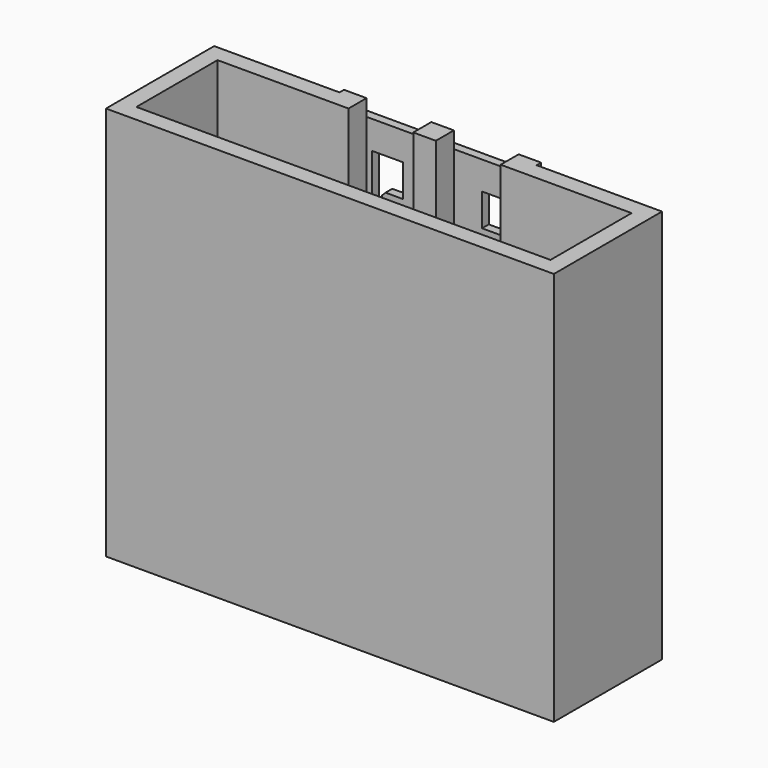
from build123d import *

# Parameters (mm, degrees)
F0_W          = 35
F0_H          = 44.15
F1_DEPTH      = 1.5
F3_DEPTH      = 45
F3_DEPTH_BACK = 25


with BuildPart() as f1:
    # F0 (on Front) → F1 (new body)
    with BuildSketch(Plane.XZ):
        Rectangle(F0_W, F0_H)
        with BuildLine():
            Line((-10.75, -10.075), (-10.75, -10.7))
            Line((-10.75, -10.7), (-10.125, -11.325))
            Line((-10.125, -11.325), (-7, -11.325))
            Line((-7, -11.325), (-7, -17.075))
            Line((-7, -17.075), (-12.5, -17.075))
            Line((-12.5, -17.075), (-12.5, -11.325))
            Line((-12.5, -11.325), (-12.5, -7.025))
            Line((-12.5, -7.025), (-10.75, -7.025))
            Line((-10.75, -7.025), (-10.75, -8.275))
            ThreePointArc((-10.75, -8.275), (-9.85, -9.175), (-10.75, -10.075))
        make_face(mode=Mode.SUBTRACT)
        with BuildLine():
            Line((10.125, -11.325), (10.75, -10.7))
            Line((10.75, -10.7), (10.75, -10.075))
            ThreePointArc((10.75, -10.075), (9.85, -9.175), (10.75, -8.275))
            Line((10.75, -8.275), (10.75, -7.025))
            Line((10.75, -7.025), (12.5, -7.025))
            Line((12.5, -7.025), (12.5, -11.325))
            Line((12.5, -11.325), (12.5, -17.075))
            Line((12.5, -17.075), (7, -17.075))
            Line((7, -17.075), (7, -11.325))
            Line((7, -11.325), (10.125, -11.325))
        make_face(mode=Mode.SUBTRACT)
        with BuildLine():
            Line((-12.5, 17.075), (-7, 17.075))
            Line((-7, 17.075), (-7, 11.325))
            Line((-7, 11.325), (-10.125, 11.325))
            Line((-10.125, 11.325), (-10.75, 10.7))
            Line((-10.75, 10.7), (-10.75, 10.075))
            ThreePointArc((-10.75, 10.075), (-9.85, 9.175), (-10.75, 8.275))
            Line((-10.75, 8.275), (-10.75, 7.025))
            Line((-10.75, 7.025), (-12.5, 7.025))
            Line((-12.5, 7.025), (-12.5, 11.325))
            Line((-12.5, 11.325), (-12.5, 17.075))
        make_face(mode=Mode.SUBTRACT)
        with BuildLine():
            Line((7, 17.075), (12.5, 17.075))
            Line((12.5, 17.075), (12.5, 11.325))
            Line((12.5, 11.325), (12.5, 7.025))
            Line((12.5, 7.025), (10.75, 7.025))
            Line((10.75, 7.025), (10.75, 8.275))
            ThreePointArc((10.75, 8.275), (9.85, 9.175), (10.75, 10.075))
            Line((10.75, 10.075), (10.75, 10.7))
            Line((10.75, 10.7), (10.125, 11.325))
            Line((10.125, 11.325), (7, 11.325))
            Line((7, 11.325), (7, 17.075))
        make_face(mode=Mode.SUBTRACT)
    extrude(amount=F1_DEPTH)

    # F2 (on Top) → F3 (join, two sides)
    with BuildSketch(Plane.XY) as f3_sk:
        Polygon((-13.5, -1.5), (-17.5, -1.5), (-17.5, -2.5), (-17.5, -5.5), (-13.5, -5.5), align=None)
        Polygon((-17.5, -5.5), (-17.5, -2.5), (-39.75, -2.5), (-39.75, -26.5), (39.75, -26.5), (39.75, -2.5), (17.5, -2.5), (17.5, -5.5), (36.75, -5.5), (36.75, -23.5), (-36.75, -23.5), (-36.75, -5.5), align=None)
        Polygon((17.5, -5.5), (17.5, -2.5), (17.5, -1.5), (13.5, -1.5), (13.5, -5.5), align=None)
        Polygon((-2, -1.5), (-2, -5.5), (0, -5.5), (2, -5.5), (2, -1.5), (0, -1.5), align=None)
    extrude(amount=-F3_DEPTH)
    extrude(f3_sk.sketch, amount=F3_DEPTH_BACK)


solid = f1.part
